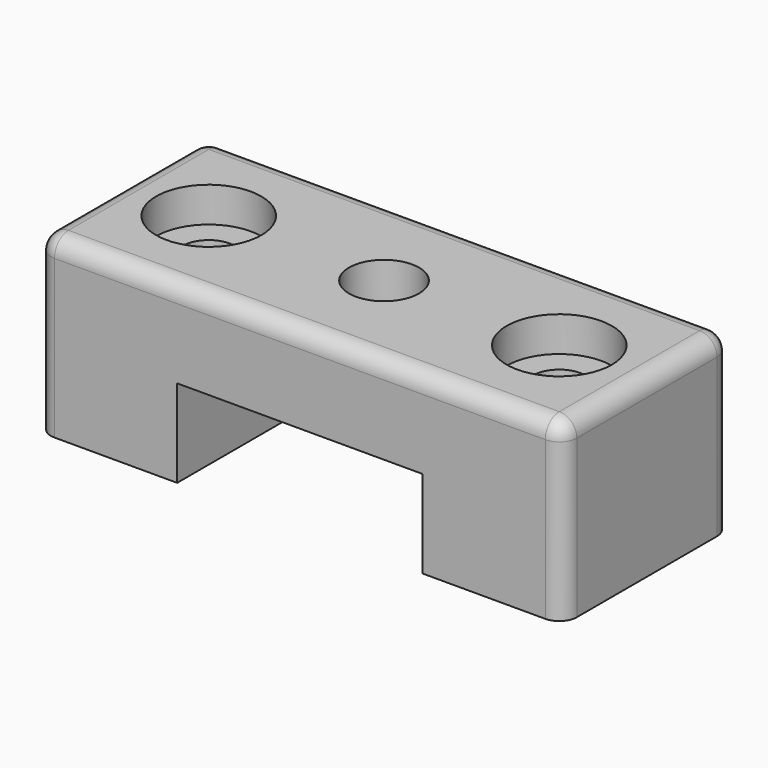
from build123d import *

# Parameters (mm, degrees)
SKETCH_W        = 30
SKETCH_H        = 12
PAD_DEPTH       = 5
SKETCH001_R     = 2
POCKET_DEPTH    = 5
SKETCH002_W     = 8
SKETCH002_H     = 12
PAD001_DEPTH    = 5
SKETCH003_R     = 1.5
POCKET001_DEPTH = 20
SKETCH004_R     = 3
POCKET002_DEPTH = 2
FILLET_R        = 1
FILLET001_R     = 1
FILLET002_R     = 1
FILLET003_R     = 1


with BuildPart() as part:
    # Sketch → Pad (new body)
    with BuildSketch(Plane.XY):
        with Locations((15, 6)):
            Rectangle(SKETCH_W, SKETCH_H)
    extrude(amount=PAD_DEPTH)

    # Sketch001 → Pocket (cut)
    with BuildSketch(Plane.XY.offset(5)):
        with Locations((15, 6)):
            Circle(SKETCH001_R)
    extrude(amount=-POCKET_DEPTH, mode=Mode.SUBTRACT)

    # Sketch002 → Pad001 (new body)
    with BuildSketch(Plane(origin=(0, 0, 0), x_dir=(1, 0, 0), z_dir=(0, 0, -1))):
        with Locations((4, -6)):
            Rectangle(SKETCH002_W, SKETCH002_H)
        with Locations((26, -6)):
            Rectangle(SKETCH002_W, SKETCH002_H)
    extrude(amount=PAD001_DEPTH)

    # Sketch003 → Pocket001 (cut)
    with BuildSketch(Plane(origin=(0, 0, -5), x_dir=(1, 0, 0), z_dir=(0, 0, -1))):
        with Locations((5, -6)):
            Circle(SKETCH003_R)
        with Locations((25, -6)):
            Circle(SKETCH003_R)
    extrude(amount=-POCKET001_DEPTH, mode=Mode.SUBTRACT)

    # Sketch004 → Pocket002 (cut)
    with BuildSketch(Plane.XY.offset(5)):
        with Locations((5, 6)):
            Circle(SKETCH004_R)
        with Locations((25, 6)):
            Circle(SKETCH004_R)
    extrude(amount=-POCKET002_DEPTH, mode=Mode.SUBTRACT)

    # Fillet
    fillet_edges = [part.edges().sort_by_distance(p)[0] for p in [
        (30, 6, 5),
    ]]
    fillet(fillet_edges, radius=FILLET_R)

    # Fillet001
    fillet001_edges = [part.edges().sort_by_distance(p)[0] for p in [
        (0, 6, 5),
    ]]
    fillet(fillet001_edges, radius=FILLET001_R)

    # Fillet002
    fillet002_edges = [part.edges().sort_by_distance(p)[0] for p in [
        (15, 12, 5),
    ]]
    fillet(fillet002_edges, radius=FILLET002_R)

    # Fillet003
    fillet003_edges = [part.edges().sort_by_distance(p)[0] for p in [
        (15, 0, 5),
    ]]
    fillet(fillet003_edges, radius=FILLET003_R)


solid = part.part
